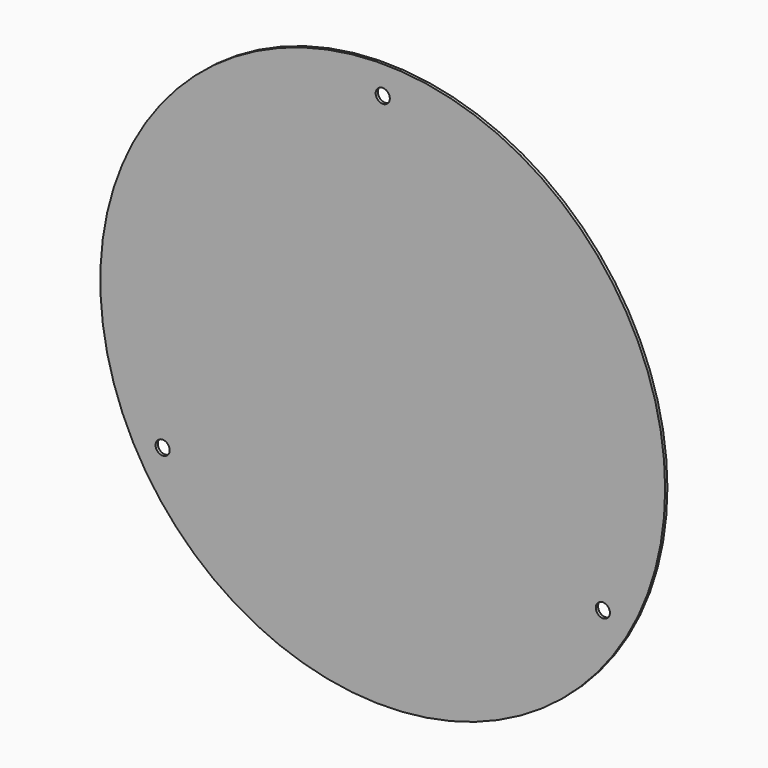
from build123d import *

# Parameters (mm, degrees)
F0_R     = 50
F0_R_2   = 1.25
F1_DEPTH = 0.5


with BuildPart() as f1:
    # F0 (on Front) → F1 (new body)
    with BuildSketch(Plane.XZ):
        Circle(F0_R)
        with Locations((-38.971143, -22.5)):
            Circle(F0_R_2, mode=Mode.SUBTRACT)
        with Locations((38.971143, -22.5)):
            Circle(F0_R_2, mode=Mode.SUBTRACT)
        with Locations((0, 45)):
            Circle(F0_R_2, mode=Mode.SUBTRACT)
    extrude(amount=F1_DEPTH)


solid = f1.part
